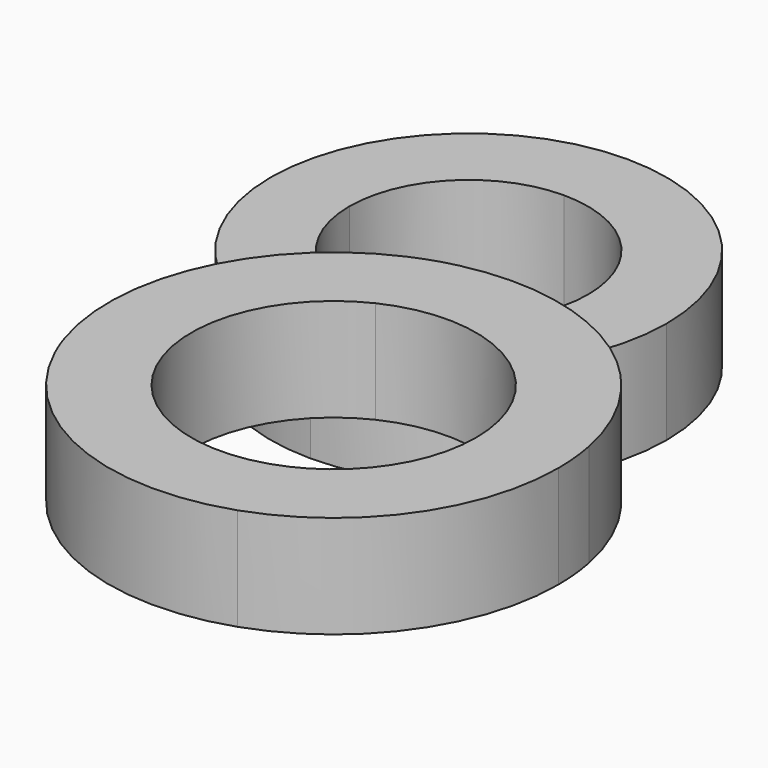
from build123d import *

# Parameters (mm, degrees)
F1_DEPTH = 25
F3_DEPTH = 25


with BuildPart() as f1:
    # F0 (on Top) → F1 (new body)
    with BuildSketch(Plane.XY):
        with BuildLine():
            Line((48.252245, 0), (29.087361, 0))
            ThreePointArc((29.087361, 0), (20.56787, -20.56787), (0, -29.087361))
            Line((0, -29.087361), (0, -48.252245))
            ThreePointArc((0, -48.252245), (34.11949, -34.11949), (48.252245, 0))
        make_face()
        with BuildLine():
            ThreePointArc((0, 29.087361), (20.56787, 20.56787), (29.087361, 0))
            Line((29.087361, 0), (48.252245, 0))
            ThreePointArc((48.252245, 0), (34.11949, 34.11949), (0, 48.252245))
            Line((0, 48.252245), (0, 29.087361))
        make_face()
        with BuildLine():
            ThreePointArc((-29.087361, 0), (-20.56787, 20.56787), (0, 29.087361))
            Line((0, 29.087361), (0, 48.252245))
            ThreePointArc((0, 48.252245), (-34.11949, 34.11949), (-48.252245, 0))
            Line((-48.252245, 0), (-29.087361, 0))
        make_face()
        with BuildLine():
            Line((0, -48.252245), (0, -29.087361))
            ThreePointArc((0, -29.087361), (-20.56787, -20.56787), (-29.087361, 0))
            Line((-29.087361, 0), (-48.252245, 0))
            ThreePointArc((-48.252245, 0), (-34.11949, -34.11949), (0, -48.252245))
        make_face()
    extrude(amount=F1_DEPTH)


with BuildPart() as f3:
    # F2 (on face) → F3 (new body)
    with BuildSketch(Plane.XY.offset(25)):
        with BuildLine():
            ThreePointArc((29.722963, -65.566895), (63.141172, -67.566874), (79.299199, -96.887425))
            ThreePointArc((79.299199, -96.887425), (72.618081, -117.351738), (55.148838, -129.931524))
            Line((55.148838, -129.931524), (62.531681, -148.620908))
            ThreePointArc((62.531681, -148.620908), (89.215834, -128.64051), (99.364822, -96.887425))
            ThreePointArc((99.364822, -96.887425), (99.105429, -91.564377), (98.329709, -86.29177))
            Line((98.329709, -86.29177), (84.647602, -59.539588))
            ThreePointArc((84.647602, -59.539588), (60.667352, -44.545535), (32.403914, -43.519822))
            ThreePointArc((32.403914, -43.519822), (27.290492, -44.954316), (22.34012, -46.87751))
            Line((22.34012, -46.87751), (29.722963, -65.566895))
        make_face()
        with BuildLine():
            ThreePointArc((55.148838, -129.931524), (12.361302, -109.629538), (29.722963, -65.566895))
            Line((29.722963, -65.566895), (22.34012, -46.87751))
            ThreePointArc((22.34012, -46.87751), (-5.358679, -74.534434), (-7.510946, -113.617636))
            Line((-7.510946, -113.617636), (-5.232335, -119.520778))
            ThreePointArc((-5.232335, -119.520778), (23.014811, -147.192465), (62.531681, -148.620908))
            Line((62.531681, -148.620908), (55.148838, -129.931524))
        make_face()
        with BuildLine():
            Line((-5.232335, -119.520778), (-7.510946, -113.617636))
            ThreePointArc((-7.510946, -113.617636), (-6.456997, -116.602154), (-5.232335, -119.520778))
        make_face()
        with BuildLine():
            ThreePointArc((98.329709, -86.29177), (93.359934, -71.958634), (84.647602, -59.539588))
            Line((84.647602, -59.539588), (98.329709, -86.29177))
        make_face()
    extrude(amount=F3_DEPTH)


solid = Compound([f1.part, f3.part])
